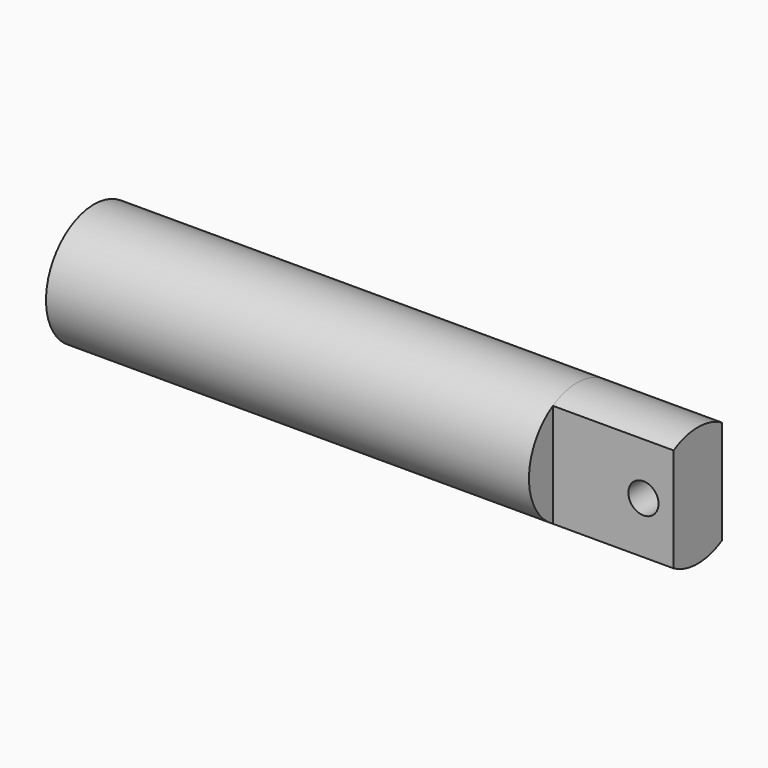
from build123d import *

# Parameters (mm, degrees)
F0_R     = 12.6365
F1_DEPTH = 101.6
F3_DEPTH = 25.4
F4_R     = 3.175
F5_DEPTH = 12.7


with BuildPart() as f1:
    # F0 (on Right) → F1 (new body)
    with BuildSketch(Plane.YZ):
        Circle(F0_R)
    extrude(amount=F1_DEPTH)

    # F2 (on face) → F3 (join)
    with BuildSketch(Plane.YZ.offset(101.6)):
        with BuildLine():
            ThreePointArc((6.35, 10.925138), (0, 12.6365), (-6.35, 10.925138))
            Line((-6.35, 10.925138), (-6.35, -10.925138))
            ThreePointArc((-6.35, -10.925138), (0, -12.6365), (6.35, -10.925138))
            Line((6.35, -10.925138), (6.35, 10.925138))
        make_face()
    extrude(amount=F3_DEPTH)

    # F4 (on face) → F5 (cut, through all)
    with BuildSketch(Plane.XZ.offset(6.35)):
        with Locations((120.65, 0)):
            Circle(F4_R)
    extrude(amount=-F5_DEPTH, mode=Mode.SUBTRACT)

    # F6 (on Front) → F7 (revolve, cut)
    with BuildSketch(Plane.XZ):
        with BuildLine():
            ThreePointArc((6.35, 0), (4.648523, 6.35), (0, 10.998523))
            Line((0, 10.998523), (0, 0))
            Line((0, 0), (6.35, 0))
        make_face()
    revolve(axis=Axis((3.175, 0, 0), (-1, 0, 0)), mode=Mode.SUBTRACT)


solid = f1.part
